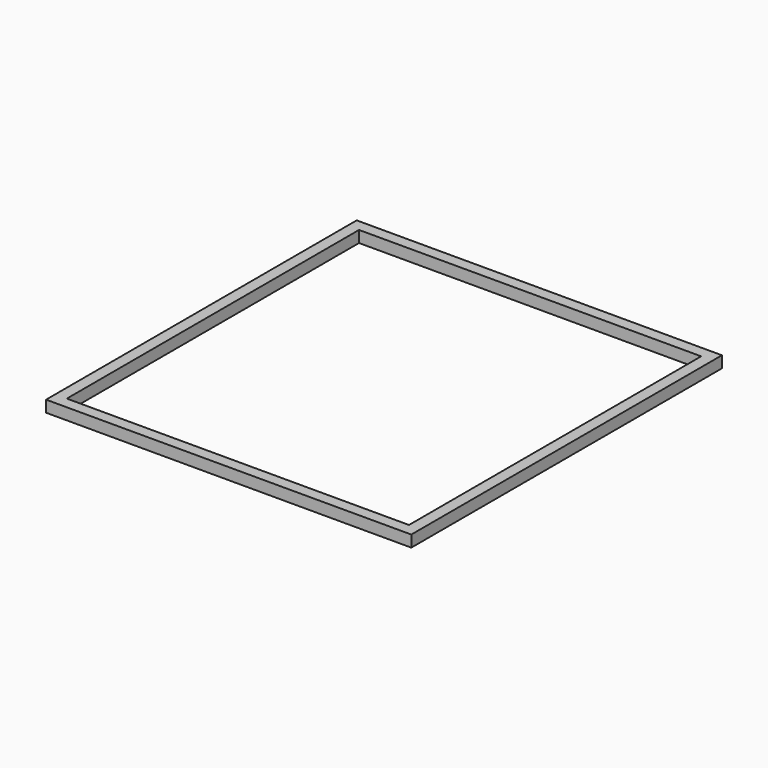
from build123d import *

# Parameters (mm, degrees)
F0_W     = 2413
F0_H     = 76.2
F1_DEPTH = 76.2
F2_W     = 76.2
F2_H     = 76.2
F3_DEPTH = 2489.2
F4_W     = 76.2
F4_H     = 76.2
F6_DEPTH = 2336.8


with BuildPart() as f1:
    # F0 (on Top) → F1 (new body)
    with BuildSketch(Plane.XY):
        with Locations((-59.041053, -148.028982)):
            Rectangle(F0_W, F0_H)
    extrude(amount=F1_DEPTH)

    # F2 (on face) → F3 (join)
    with BuildSketch(Plane.XZ.offset(186.128982)):
        with Locations((-1227.441053, 38.1)):
            Rectangle(F2_W, F2_H)
        with Locations((1109.358947, 38.1)):
            Rectangle(F2_W, F2_H)
    extrude(amount=F3_DEPTH)

    # F4 (on face) → F6 (join)
    with BuildSketch(Plane.YZ.offset(-1189.341053)):
        with Locations((-2637.228982, 38.1)):
            Rectangle(F4_W, F4_H)
    extrude(amount=F6_DEPTH)


solid = f1.part
